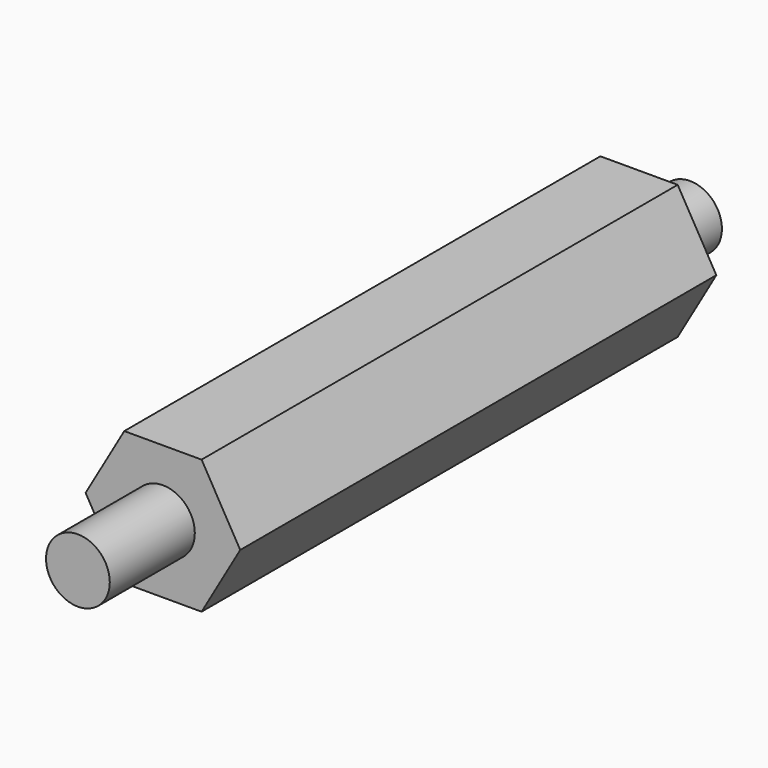
from build123d import *

# Parameters (mm, degrees)
F0_R     = 1.5
F1_DEPTH = 14
F2_DEPTH = 19
F3_DEPTH = 17


with BuildPart() as f1:
    # F0 (on Front) → F1 (new body, symmetric)
    with BuildSketch(Plane.XZ):
        Polygon((-2.879062, 0), (-1.060408, -3.15), (2.576898, -3.15), (4.395552, 0), (2.576898, 3.15), (-1.060408, 3.15), align=None)
        with Locations((0.758245, 0)):
            Circle(F0_R, mode=Mode.SUBTRACT)
    extrude(amount=F1_DEPTH, both=True)

    # F0 (on Front) → F2 (join)
    with BuildSketch(Plane.XZ):
        with Locations((0.758245, 0)):
            Circle(F0_R)
    extrude(amount=F2_DEPTH)

    # F0 (on Front) → F3 (join)
    with BuildSketch(Plane.XZ):
        with Locations((0.758245, 0)):
            Circle(F0_R)
    extrude(amount=-F3_DEPTH)


solid = f1.part
